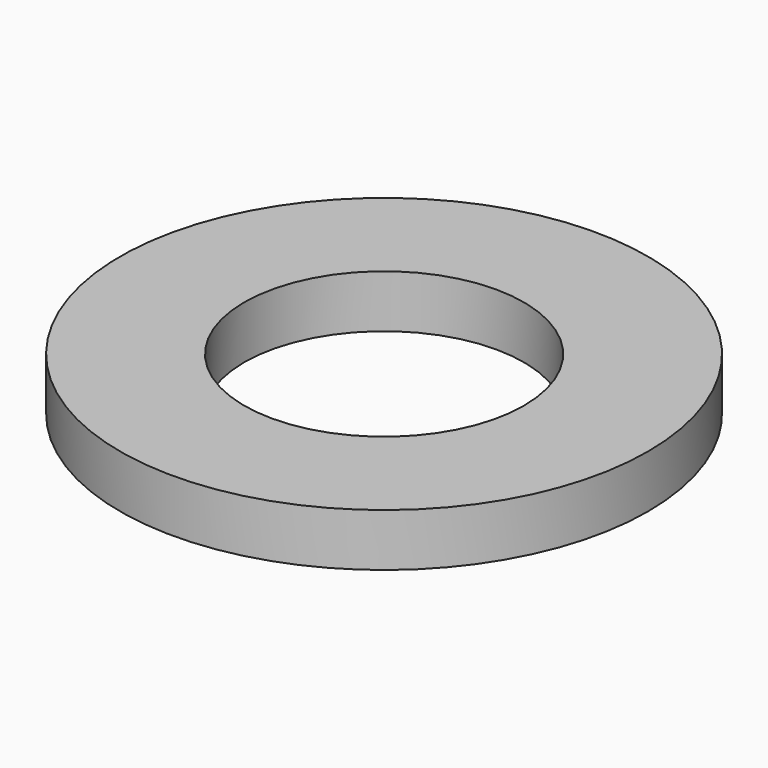
from build123d import *

# Parameters (mm, degrees)
SKETCH_R   = 5
SKETCH_R_2 = 2.65
PAD_DEPTH  = 1


with BuildPart() as part:
    # Sketch → Pad (new body)
    with BuildSketch(Plane.XY):
        Circle(SKETCH_R)
        Circle(SKETCH_R_2, mode=Mode.SUBTRACT)
    extrude(amount=PAD_DEPTH)


solid = part.part
